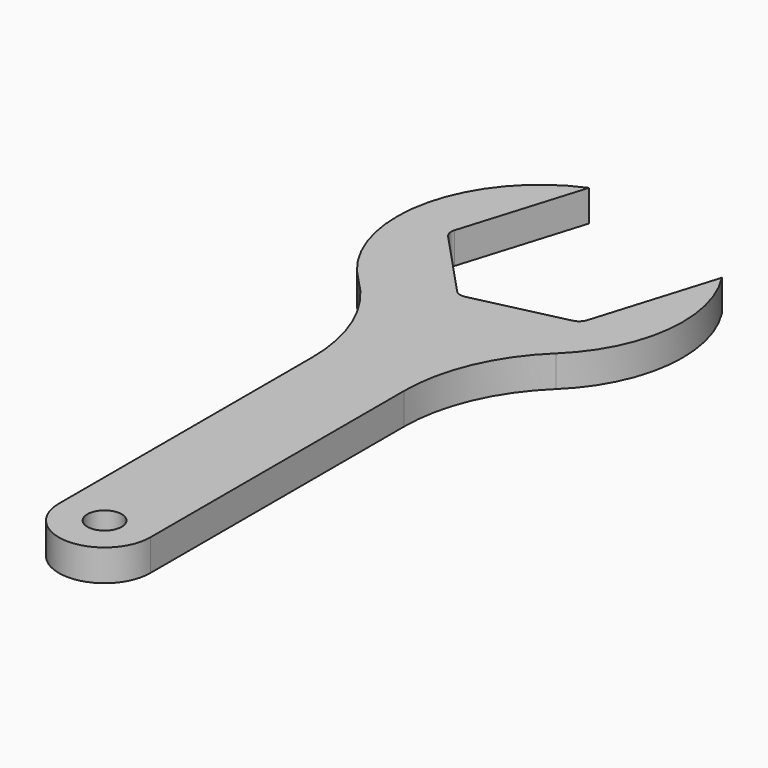
from build123d import *

# Parameters (mm, degrees)
F0_R     = 3
F1_DEPTH = 5.5


with BuildPart() as f1:
    # F0 (on Top) → F1 (new body)
    with BuildSketch(Plane.XY):
        with BuildLine():
            ThreePointArc((15.810869, -22.855065), (23.367697, -7.695828), (19.526443, 8.80123))
            Line((19.526443, 8.80123), (13.016414, -12.492116))
            ThreePointArc((13.016414, -12.492116), (12.467801, -13.37008), (11.553707, -13.856113))
            Line((11.553707, -13.856113), (-4.310283, -17.518603))
            ThreePointArc((-4.310283, -17.518603), (-5.344928, -17.482473), (-6.222892, -16.93386))
            Line((-6.222892, -16.93386), (-17.326697, -5.026487))
            ThreePointArc((-17.326697, -5.026487), (-17.81273, -4.112393), (-17.776599, -3.077747))
            Line((-17.776599, -3.077747), (-11.26657, 18.215599))
            ThreePointArc((-11.26657, 18.215599), (-26.058541, -0.309027), (-18.734586, -22.855065))
            ThreePointArc((-18.734586, -22.855065), (-11.877278, -32.749634), (-9.461859, -44.543314))
            Line((-9.461859, -44.543314), (-9.461859, -100))
            ThreePointArc((-9.461859, -100), (-1.461859, -108), (6.538141, -100))
            Line((6.538141, -100), (6.538141, -44.543314))
            ThreePointArc((6.538141, -44.543314), (8.953561, -32.749634), (15.810869, -22.855065))
        make_face()
        with Locations((-1.461859, -100)):
            Circle(F0_R, mode=Mode.SUBTRACT)
    extrude(amount=F1_DEPTH)


solid = f1.part
